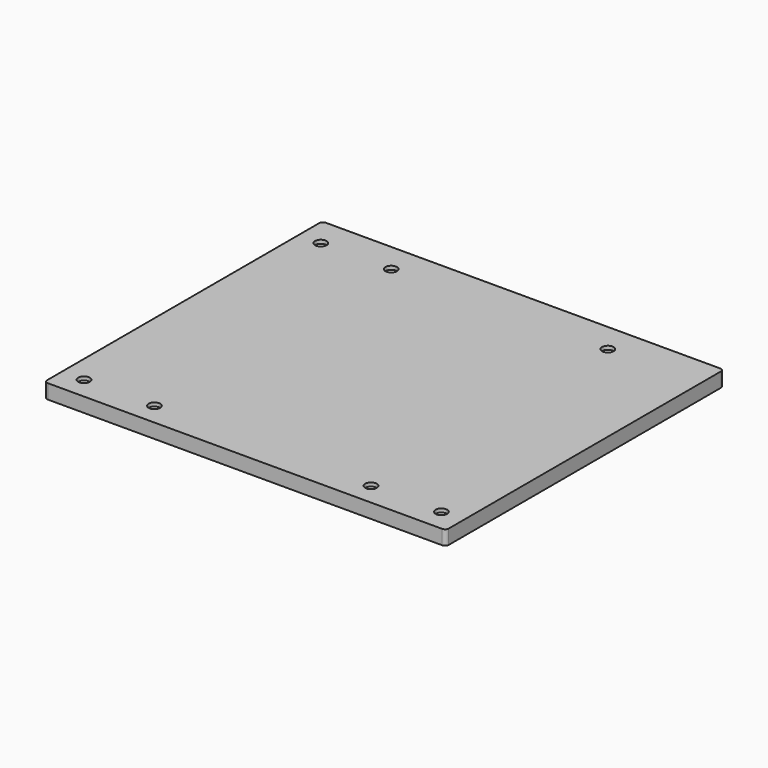
from build123d import *

# Parameters (mm, degrees)
PAD030_DEPTH    = 1
PAD031_DEPTH    = 3
SKETCH049_R     = 1.6
POCKET019_DEPTH = 5


with BuildPart() as part:
    # Sketch047 → Pad030 (new body)
    with BuildSketch(Plane.XY):
        with BuildLine():
            Line((-55.625, 47.125), (-55.625, -47.125))
            ThreePointArc((-55.625, -47.125), (-55.332107, -47.832107), (-54.625, -48.125))
            Line((-54.625, -48.125), (54.625, -48.125))
            ThreePointArc((54.625, -48.125), (55.332107, -47.832107), (55.625, -47.125))
            Line((55.625, -47.125), (55.625, 47.125))
            ThreePointArc((55.625, 47.125), (55.332107, 47.832107), (54.625, 48.125))
            Line((54.625, 48.125), (-54.625, 48.125))
            ThreePointArc((-54.625, 48.125), (-55.332107, 47.832107), (-55.625, 47.125))
        make_face()
    extrude(amount=PAD030_DEPTH)

    # Sketch048 → Pad031 (join)
    with BuildSketch(Plane.XY):
        with BuildLine():
            Line((-55.625, 47.125), (-55.625, -47.125))
            ThreePointArc((-55.625, -47.125), (-55.332107, -47.832107), (-54.625, -48.125))
            Line((-54.625, -48.125), (54.625, -48.125))
            ThreePointArc((54.625, -48.125), (55.332107, -47.832107), (55.625, -47.125))
            Line((55.625, -47.125), (55.625, 47.125))
            ThreePointArc((55.625, 47.125), (55.332107, 47.832107), (54.625, 48.125))
            Line((54.625, 48.125), (-54.625, 48.125))
            ThreePointArc((-54.625, 48.125), (-55.332107, 47.832107), (-55.625, 47.125))
        make_face()
        with BuildLine():
            Line((-54.625, 46.125), (-54.625, -46.125))
            ThreePointArc((-54.625, -46.125), (-54.332107, -46.832107), (-53.625, -47.125))
            Line((-53.625, -47.125), (53.625, -47.125))
            ThreePointArc((53.625, -47.125), (54.332107, -46.832107), (54.625, -46.125))
            Line((54.625, -46.125), (54.625, 46.125))
            ThreePointArc((54.625, 46.125), (54.332107, 46.832107), (53.625, 47.125))
            Line((53.625, 47.125), (-53.625, 47.125))
            ThreePointArc((-53.625, 47.125), (-54.332107, 46.832107), (-54.625, 46.125))
        make_face(mode=Mode.SUBTRACT)
    extrude(amount=-PAD031_DEPTH)

    # Sketch049 → Pocket019 (cut)
    with BuildSketch(Plane.XY):
        with Locations((-49.5, 40)):
            Circle(SKETCH049_R)
        with Locations((-30, 40)):
            Circle(SKETCH049_R)
        with Locations((30, 40)):
            Circle(SKETCH049_R)
        with Locations((-30, -42)):
            Circle(SKETCH049_R)
        with Locations((-49.5, -42)):
            Circle(SKETCH049_R)
        with Locations((30, -42)):
            Circle(SKETCH049_R)
        with Locations((49.5, -42)):
            Circle(SKETCH049_R)
    extrude(amount=POCKET019_DEPTH, mode=Mode.SUBTRACT)


with BuildPart() as part_1:
    # Body013 placement: moved
    add(part.part.moved(Location((0, 0, 36.1))))


solid = part_1.part
